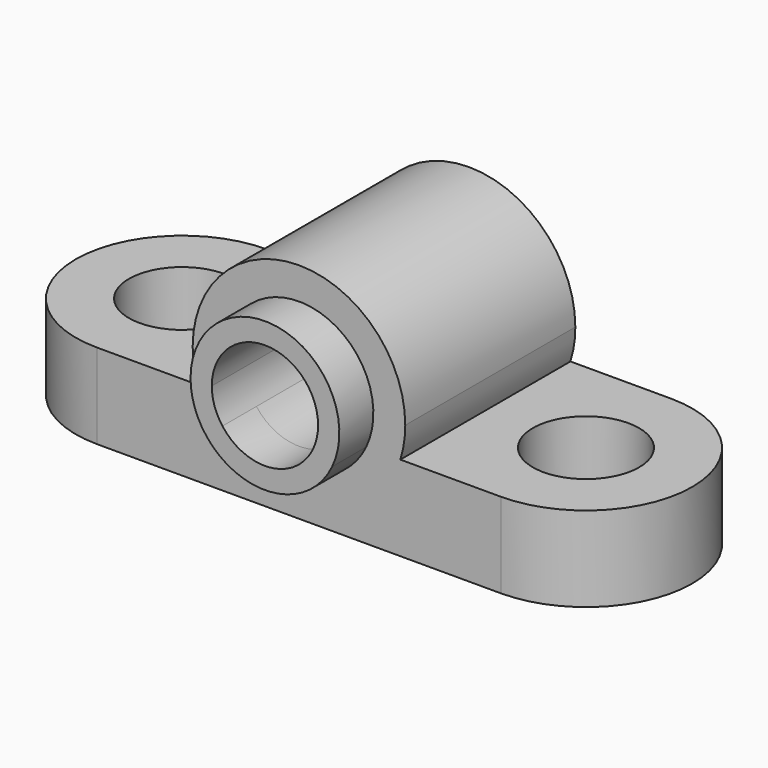
from build123d import *

# Parameters (mm, degrees)
F0_R     = 5
F1_DEPTH = 8
F3_DEPTH = 24
F4_DEPTH = 20
F5_D     = 10
F5_DEPTH = 24
F5_TIP   = 3.0043030951


with BuildPart() as f1:
    # F0 (on Top) → F1 (new body)
    with BuildSketch(Plane.XY):
        with BuildLine():
            Line((19, 0), (0, 0))
            Line((0, 0), (-19, 0))
            ThreePointArc((-19, 0), (-29, -10), (-19, -20))
            Line((-19, -20), (0, -20))
            Line((0, -20), (19, -20))
            ThreePointArc((19, -20), (29, -10), (19, 0))
        make_face()
        with Locations((-19, -10)):
            Circle(F0_R, mode=Mode.SUBTRACT)
        with Locations((19, -10)):
            Circle(F0_R, mode=Mode.SUBTRACT)
    extrude(amount=F1_DEPTH)

    # F2 (on face) → F3 (join)
    with BuildSketch(Plane(origin=(0, 0, 0), x_dir=(-1, 0, 0), z_dir=(0, 1, 0))):
        with BuildLine():
            ThreePointArc((4, 8), (0, 6), (-4, 8))
            Line((-4, 8), (-6.3245553203, 8))
            ThreePointArc((-6.3245553203, 8), (0, 4), (6.3245553203, 8))
            Line((6.3245553203, 8), (4, 8))
        make_face()
        with BuildLine():
            ThreePointArc((-4, 8), (-1.5811388301, 15.7434164903), (5, 11))
            ThreePointArc((5, 11), (4.7434164903, 9.4188611699), (4, 8))
            Line((4, 8), (6.3245553203, 8))
            ThreePointArc((6.3245553203, 8), (6.8290514437, 9.4624511784), (7, 11))
            ThreePointArc((7, 11), (-1.5375488216, 17.8290514437), (-6.3245553203, 8))
            Line((-6.3245553203, 8), (-4, 8))
        make_face()
    extrude(amount=-F3_DEPTH)

    # F2 (on face) → F4 (join)
    with BuildSketch(Plane(origin=(0, 0, 0), x_dir=(-1, 0, 0), z_dir=(0, 1, 0))):
        with BuildLine():
            Line((-9.5393920142, 8), (-6.3245553203, 8))
            ThreePointArc((-6.3245553203, 8), (-1.5375488216, 17.8290514437), (7, 11))
            ThreePointArc((7, 11), (6.8290514437, 9.4624511784), (6.3245553203, 8))
            Line((6.3245553203, 8), (9.5393920142, 8))
            ThreePointArc((9.5393920142, 8), (9.8841772582, 9.4824230072), (10, 11))
            ThreePointArc((10, 11), (0, 21), (-10, 11))
            ThreePointArc((-10, 11), (-9.8841772582, 9.4824230072), (-9.5393920142, 8))
        make_face()
    extrude(amount=-F4_DEPTH)

    # F5
    with Locations(Plane(origin=(0, 0, 0), x_dir=(-1, 0, 0), z_dir=(0, 1, 0))):
        with Locations((0, 11)):
            Hole(F5_D / 2, depth=F5_DEPTH)
            with Locations((0, 0, -(F5_DEPTH + F5_TIP / 2))):  # 118° drill point
                Cone(0, F5_D / 2, F5_TIP, mode=Mode.SUBTRACT)


solid = f1.part
